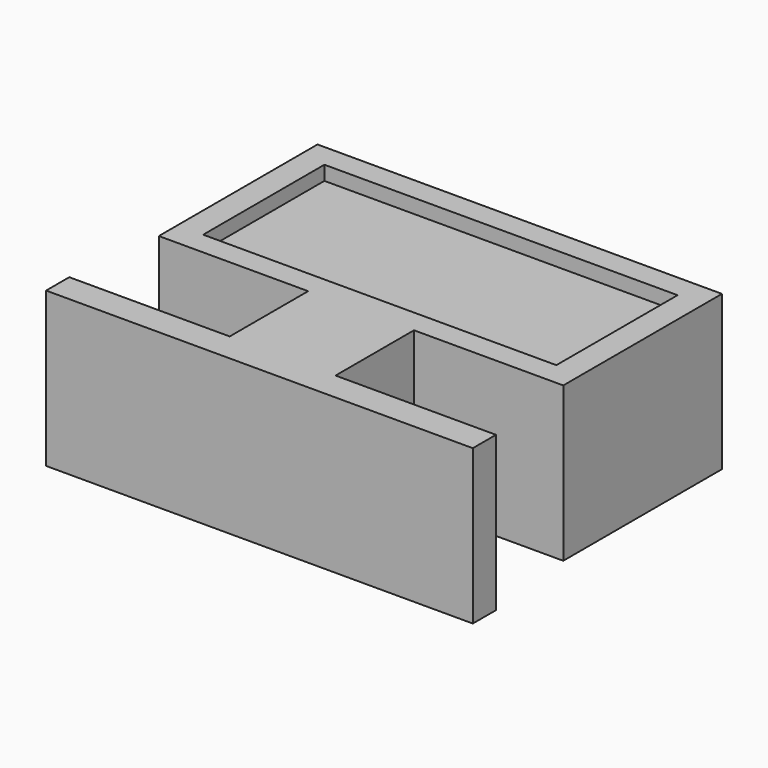
from build123d import *

# Parameters (mm, degrees)
F0_W     = 57.1907274425
F0_H     = 24.536088109
F0_W_2   = 17.1391749755
F0_H_2   = 15.8762889914
F0_H_3   = 0.3608246334
F1_DEPTH = 25
F2_W     = 57.1907274425
F2_H     = 6.2615685165
F3_DEPTH = 25.4


with BuildPart() as f1:
    # F0 (on Top) → F1 (new body)
    with BuildSketch(Plane.XY):
        Polygon((32.7448472381, 16.2371136248), (32.7448472381, 48.3505167067), (-32.7448472381, 48.3505167067), (-32.7448472381, 16.2371136248), (-8.5695888847, 16.2371136248), (8.5695860907, 16.2371136248), align=None)
        with Locations((0, 32.2938151658)):
            Rectangle(F0_W, F0_H, mode=Mode.SUBTRACT)
        with Locations((-1.397e-06, 8.2989691291)):
            Rectangle(F0_W_2, F0_H_2)
        Polygon((34.5489680767, 0.3608246334), (8.5695860907, 0.3608246334), (8.5695860907, 0), (-8.5695888847, 0), (-8.5695888847, 0.3608246334), (-34.5489680767, 0.3608246334), (-34.5489680767, -4.3298969977), (34.5489680767, -4.3298969977), align=None)
        with Locations((-1.397e-06, 0.1804123167)):
            Rectangle(F0_W_2, F0_H_3)
    extrude(amount=F1_DEPTH)

    # F2 (on face) → F3 (join)
    with BuildSketch(Plane(origin=(0, 20.0257711112, 0), x_dir=(-1, 0, 0), z_dir=(0, 1, 0))):
        with Locations((0, 19.563915208)):
            Rectangle(F2_W, F2_H)
    extrude(amount=F3_DEPTH)


solid = f1.part
